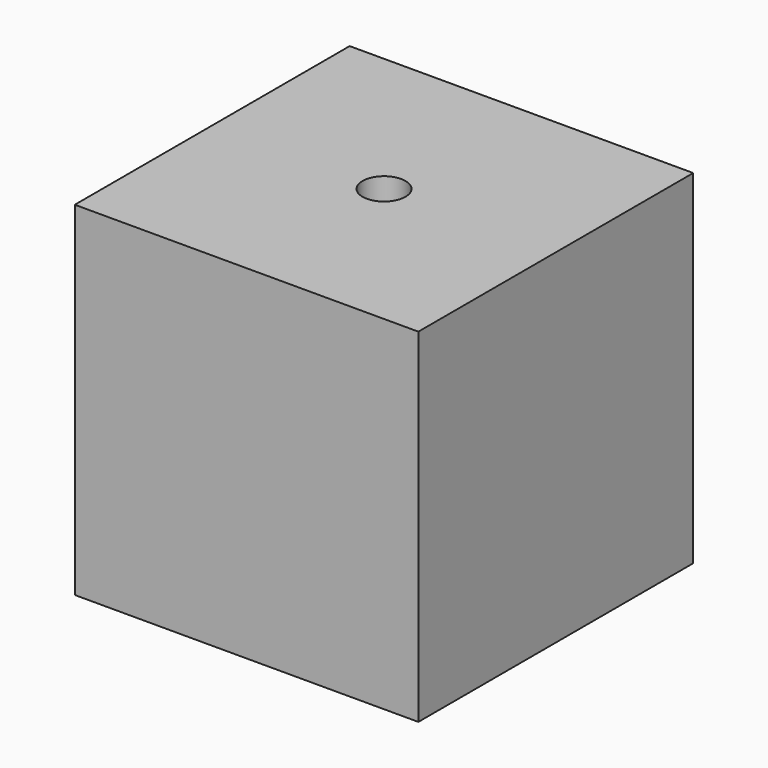
from build123d import *

# Parameters (mm, degrees)
F0_W     = 50.8
F0_H     = 50.8
F1_DEPTH = 25.4
F3_D     = 6.35


with BuildPart() as f1:
    # F0 (on Front) → F1 (new body, symmetric)
    with BuildSketch(Plane.XZ):
        Rectangle(F0_W, F0_H)
    extrude(amount=F1_DEPTH, both=True)

    # F3 (through all)
    with Locations(Plane.XY.offset(25.4)):
        with Locations((0, 0)):
            Hole(F3_D / 2)


solid = f1.part
